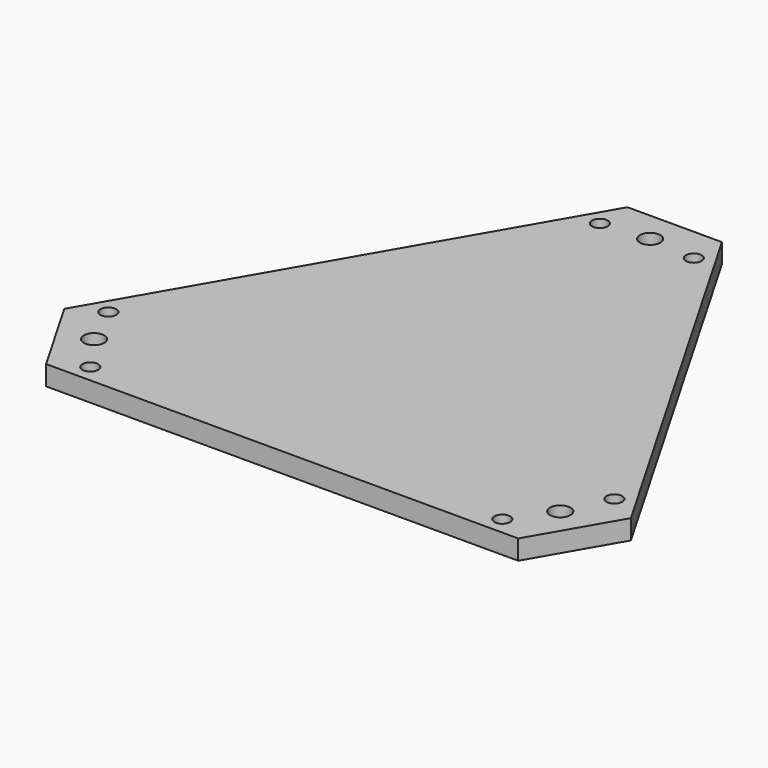
from build123d import *

# Parameters (mm, degrees)
F0_R     = 6.5
F0_R_2   = 5
F1_DEPTH = 12.5


with BuildPart() as f1:
    # F0 (on Top) → F1 (new body)
    with BuildSketch(Plane.XY):
        Polygon((-30, 190.525589), (-180, -69.282032), (-150, -121.243557), (150, -121.243557), (180, -69.282032), (30, 190.525589), align=None)
        with Locations((-148.090344, -85.5)):
            Circle(F0_R, mode=Mode.SUBTRACT)
        with Locations((-130.891608, -110.038116)):
            Circle(F0_R_2, mode=Mode.SUBTRACT)
        with Locations((-160.741608, -58.336399)):
            Circle(F0_R_2, mode=Mode.SUBTRACT)
        with Locations((130.891608, -110.038116)):
            Circle(F0_R_2, mode=Mode.SUBTRACT)
        with Locations((148.090344, -85.5)):
            Circle(F0_R, mode=Mode.SUBTRACT)
        with Locations((160.741608, -58.336399)):
            Circle(F0_R_2, mode=Mode.SUBTRACT)
        with Locations((-29.85, 168.374516)):
            Circle(F0_R_2, mode=Mode.SUBTRACT)
        with Locations((0, 171)):
            Circle(F0_R, mode=Mode.SUBTRACT)
        with Locations((29.85, 168.374516)):
            Circle(F0_R_2, mode=Mode.SUBTRACT)
    extrude(amount=F1_DEPTH)


solid = f1.part
